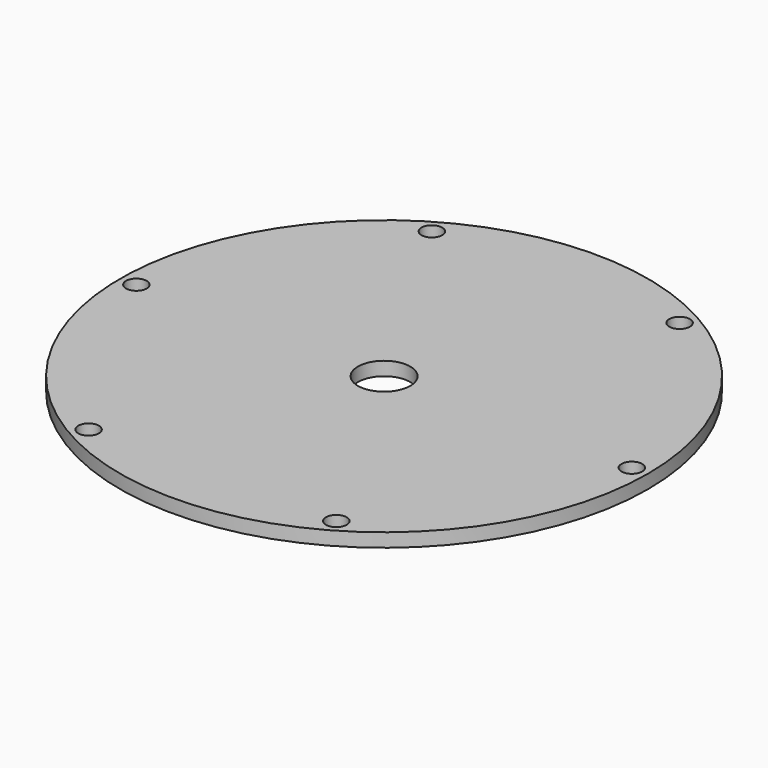
from build123d import *

# Parameters (mm, degrees)
F0_R     = 116
F1_DEPTH = 6
F3_D     = 9.1
F5_D     = 23


with BuildPart() as f1:
    # F0 (on Top) → F1 (new body)
    with BuildSketch(Plane.XY):
        Circle(F0_R)
    extrude(amount=F1_DEPTH)

    # F3 (through all)
    with Locations(Plane.XY.offset(6)):
        with Locations((-54.4375, 94.288516), (54.4375, 94.288516), (108.875, 0), (54.4375, -94.288516), (-54.4375, -94.288516), (-108.875, 0)):
            Hole(F3_D / 2)

    # F5 (through all)
    with Locations(Plane.XY.offset(6)):
        with Locations((0, 0)):
            Hole(F5_D / 2)


solid = f1.part
